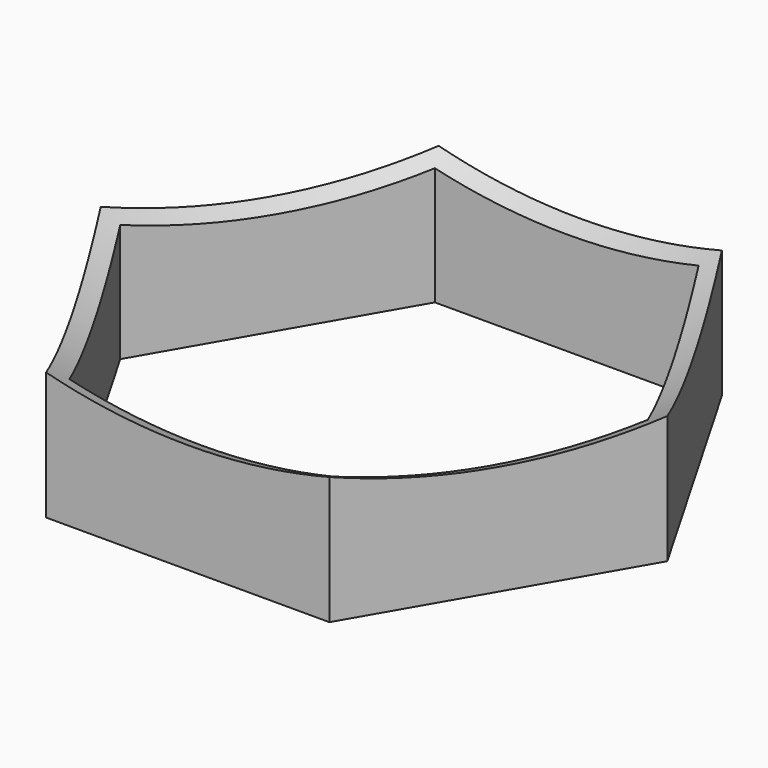
from build123d import *

# Parameters (mm, degrees)
F2_DEPTH = 25


with BuildPart() as f2:
    # F0 (on Top) → F2 (new body)
    with BuildSketch(Plane.XY):
        Polygon((-16.743158, 29), (-33.486316, 0), (-16.743158, -29), (16.743158, -29), (33.486316, 0), (16.743158, 29), align=None)
        Polygon((-31.176915, 0), (-15.588457, 27), (15.588457, 27), (31.176915, 0), (15.588457, -27), (-15.588457, -27), align=None, mode=Mode.SUBTRACT)
    extrude(amount=F2_DEPTH)

    # F1 (on Front) → F3 (revolve, cut)
    with BuildSketch(Plane.XZ):
        with BuildLine():
            Line((0, 153.025), (0, 6.975))
            ThreePointArc((0, 6.975), (73.025, 80), (0, 153.025))
        make_face()
    revolve(axis=Axis((0, 0, 80.38395), (0, 0, -1)), mode=Mode.SUBTRACT)


solid = f2.part
